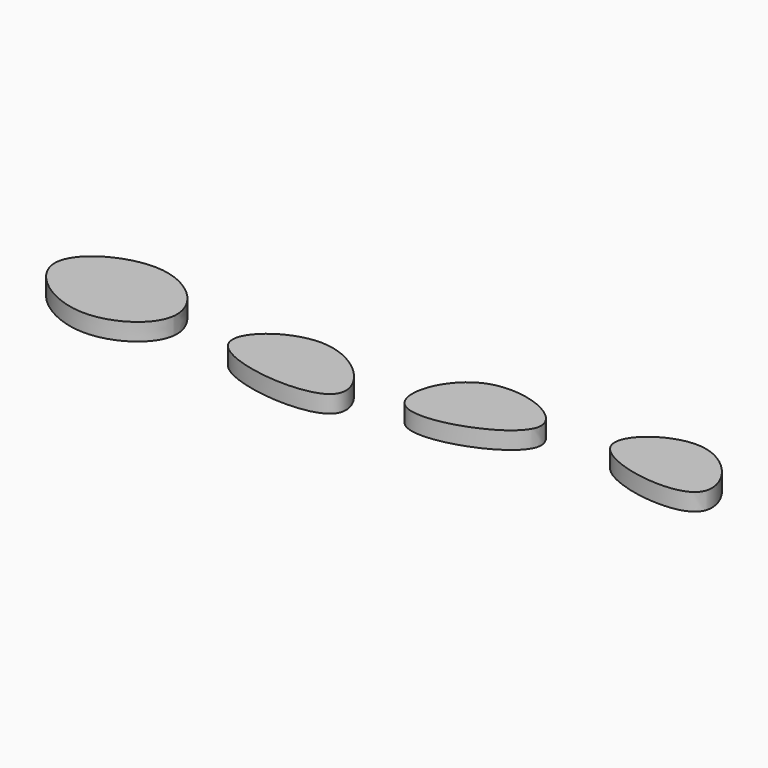
from build123d import *

# Parameters (mm, degrees)
F1_DEPTH = 6.096


with BuildPart() as f1:
    # F0 (on Top) → F1 (new body)
    with BuildSketch(Plane.XY):
        with BuildLine():
            add(Edge.make_bspline(
                [(0, 0), (5.0725048914, 6.2329660703), (-18.9394847967, 33.6549142678), (-61.4398442974, -0.9139423435), (-6.0502408025, -7.4343832972), (0, 0)],
                knots=[0, 0, 0, 0, 0.3173062066, 0.6215323595, 1, 1, 1, 1], degree=3))
        make_face()
    extrude(amount=F1_DEPTH)


with BuildPart() as f1b:
    # F0 (on Top) → F1, piece 2 (new body)
    with BuildSketch(Plane.XY):
        with BuildLine():
            add(Edge.make_bspline(
                [(19.934060052, 6.3640559092), (12.964682373, 11.0302150345), (22.816780856, 42.4279097366), (77.9003890705, 19.4159609589), (28.5033187226, 0.6267395542), (19.934060052, 6.3640559092)],
                knots=[0, 0, 0, 0, 0.3017938399, 0.628926771, 1, 1, 1, 1], degree=3))
        make_face()
    extrude(amount=F1_DEPTH)


with BuildPart() as f1c:
    # F0 (on Top) → F1, piece 3 (new body)
    with BuildSketch(Plane.XY):
        with BuildLine():
            add(Edge.make_bspline(
                [(-63.5150447488, 8.8664228097), (-62.7637448396, 17.1663818459), (-81.8239965362, 36.5595942754), (-121.691040129, 14.5233398555), (-85.7649467191, -13.5751417309), (-64.2490999737, 0.7569738091), (-63.5150447488, 8.8664228097)],
                knots=[0, 0, 0, 0, 0.246632709, 0.5014718496, 0.7590282836, 1, 1, 1, 1], degree=3))
        make_face()
    extrude(amount=F1_DEPTH)


with BuildPart() as f1d:
    # F0 (on Top) → F1, piece 4 (new body)
    with BuildSketch(Plane.XY):
        with BuildLine():
            add(Edge.make_bspline(
                [(78.7021368742, 23.3310032636), (75.6455150341, 30.4538192109), (101.331842803, 50.2642483167), (130.8475874616, 6.2141733545), (82.3544999499, 14.8199373477), (78.7021368742, 23.3310032636)],
                knots=[0, 0, 0, 0, 0.311434312, 0.627866566, 1, 1, 1, 1], degree=3))
        make_face()
    extrude(amount=F1_DEPTH)


solid = Compound([f1.part, f1b.part, f1c.part, f1d.part])
